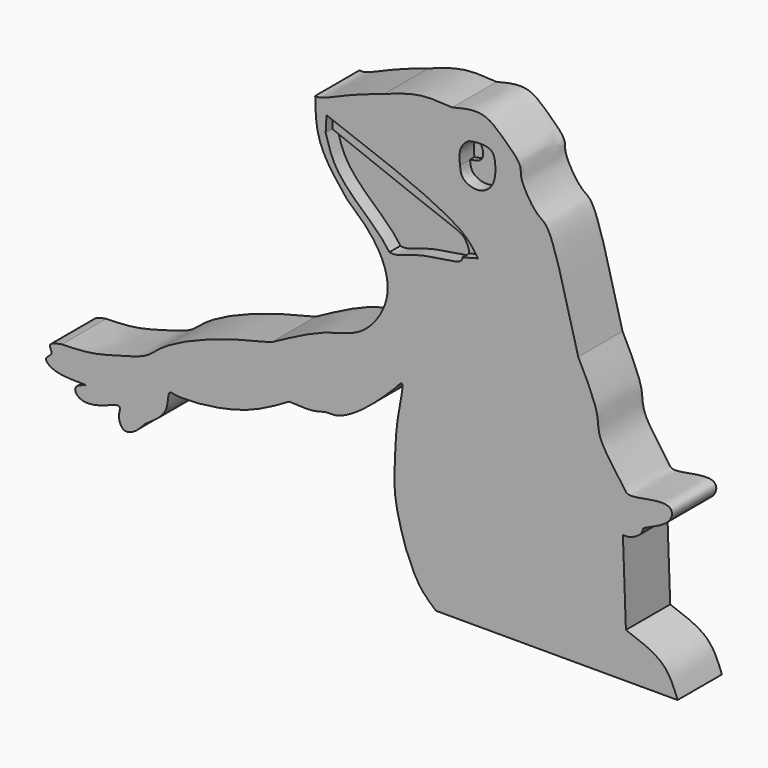
from build123d import *

# Parameters (mm, degrees)
F1_DEPTH = 10.16
F2_DEPTH = 7.874
F3_DEPTH = 6.858
F4_DEPTH = 7.62
F5_DEPTH = 8.636


with BuildPart() as f1:
    # F0 (on Front) → F1 (new body)
    with BuildSketch(Plane.XZ):
        with BuildLine():
            add(Edge.make_bspline(
                [(-7.4066231027, 26.5051294118), (-8.7900320216, 28.2262713918), (-11.3731182901, 31.4399692029), (-13.1375874525, 36.029446791), (-13.1983214906, 39.5210565578), (-13.2293635979, 41.3056723773)],
                knots=[0, 0, 0, 0, 0.3605146901, 0.6731491557, 1, 1, 1, 1], degree=3))
            add(Edge.make_bspline(
                [(-7.4066231027, 26.5051294118), (-5.6075185724, 24.9361719801), (-1.9179781437, 21.7186091439), (1.5465723362, 13.5968357464), (-4.1058604713, 5.1794589449), (-11.3159638541, 4.2955612312), (-17.697433793, 0.8426675206), (-21.2790891528, -1.0952990269)],
                knots=[0, 0, 0, 0, 0.1861093524, 0.381666528, 0.5848000662, 0.7669654355, 1, 1, 1, 1], degree=3))
            add(Edge.make_bspline(
                [(-21.2790891528, -1.0952990269), (-23.56552454, -1.6459951335), (-28.3564480252, -2.7999061185), (-36.4355382049, -5.5847773925), (-41.8693983392, -8.6332684298), (-44.0219888527, -10.9635819575), (-48.8501418421, -12.2068418697), (-54.1040270814, -13.7859140865), (-57.8317761657, -13.8769085079), (-59.6912130713, -13.9222973958)],
                knots=[0, 0, 0, 0, 0.1611318491, 0.3376305161, 0.4843078766, 0.5877501634, 0.7178219166, 0.8592468725, 1, 1, 1, 1], degree=3))
            add(Edge.make_bspline(
                [(-59.6912130713, -13.9222973958), (-60.7440045437, -14.1128348389), (-62.5705713103, -14.443412518), (-61.0351938244, -16.1803503583), (-63.3567414056, -17.0459505577), (-60.8289053963, -19.4033723602), (-53.2775461629, -18.801388512), (-57.6182429762, -19.5655543328), (-56.9864136913, -21.8405097239), (-53.39023608, -22.185542869), (-48.6434810455, -19.7179768531), (-49.2831889461, -21.6850615609), (-49.1899155711, -22.984303007), (-48.4322009301, -24.3896626493), (-46.346403078, -23.917435153), (-45.1561054659, -22.5980267187), (-44.4886833429, -21.8582097441)],
                knots=[0, 0, 0, 0, 0.0743763524, 0.1290411037, 0.1867442843, 0.2645359159, 0.3756723159, 0.442094031, 0.5003125582, 0.5916112881, 0.6916064757, 0.7412427064, 0.7992695806, 0.8544640103, 0.9183952499, 1, 1, 1, 1], degree=3))
            add(Edge.make_bspline(
                [(-44.4886833429, -21.8582097441), (-42.8185908796, -20.7481230246), (-39.9403088495, -18.834969875), (-40.4037159365, -14.8437998715), (-38.3227594151, -15.6867573324), (-30.3021075502, -15.0406522559), (-23.578180167, -12.8557765683), (-19.806517156, -10.6662328929), (-18.0037710816, -9.6196942031)],
                knots=[0, 0, 0, 0, 0.1757777272, 0.3029400375, 0.3903725429, 0.6035363414, 0.8105018126, 1, 1, 1, 1], degree=3))
            add(Edge.make_bspline(
                [(-18.0037710816, -9.6196942031), (-16.2645635863, -9.7213879889), (-13.3871353966, -9.8896350593), (-11.392664136, -8.9528402822), (-9.037164599, -9.390589127), (-3.9032877909, -6.3587167423), (-0.4294833966, -2.944172256), (1.451477292, -1.0952990269)],
                knots=[0, 0, 0, 0, 0.2123296467, 0.3512883383, 0.4935133969, 0.7257527248, 1, 1, 1, 1], degree=3))
            add(Edge.make_bspline(
                [(1.451477292, -1.0952990269), (1.9544574994, -0.4800143818), (3.2170803204, 1.0645243951), (2.1280184601, -4.1785510677), (1.6152193832, -7.7948831694), (1.5035617311, -10.11357974), (1.451477292, -11.1951716244)],
                knots=[0, 0, 0, 0, 0.1801701104, 0.4522780214, 0.7445066101, 1, 1, 1, 1], degree=3))
            add(Edge.make_bspline(
                [(1.451477292, -11.1951716244), (1.2967436476, -13.6903270157), (0.9824552356, -18.7583807584), (2.583274678, -23.8257501816), (3.3959625289, -26.3983011246)],
                knots=[0, 0, 0, 0, 0.4923300971, 1, 1, 1, 1], degree=3))
            add(Edge.make_bspline(
                [(3.3959625289, -26.3983011246), (4.158249938, -28.2716170621), (5.5759973581, -31.7557213588), (7.8550393976, -33.7248333487), (8.908697404, -34.6352029592)],
                knots=[0, 0, 0, 0, 0.5376750459, 1, 1, 1, 1], degree=3))
            add(Edge.make_bspline(
                [(8.908697404, -34.6352029592), (18.6420871318, -34.6352029592), (35.9365887195, -34.6352029592), (53.2310903072, -34.6352029592)],
                knots=[0.3294065062, 0.3294065062, 0.3294065062, 0.3294065062, 1, 1, 1, 1], degree=3))
            add(Edge.make_bspline(
                [(43.7491871417, -26.3983011246), (46.3077787712, -27.2893232954), (51.087376092, -28.9538043057), (52.5509772564, -32.8327269837), (53.2310903072, -34.6352029592)],
                knots=[0, 0, 0, 0, 0.5353153117, 1, 1, 1, 1], degree=3))
            add(Edge.make_bspline(
                [(43.1979112327, -11.1951716244), (43.381669869, -16.2628814578), (43.5654285053, -21.3305912912), (43.7491871417, -26.3983011246)],
                knots=[0, 0, 0, 0, 15.2131210383, 15.2131210383, 15.2131210383, 15.2131210383], degree=3))
            add(Edge.make_bspline(
                [(43.1979112327, -11.1951716244), (43.5183352989, -11.2426505237), (44.3081049949, -11.3596748044), (46.5694733664, -10.2746573768), (46.8369836183, -9.3243625824), (46.9522587955, -8.9148627594)],
                knots=[0, 0, 0, 0, 0.2798055912, 0.6896547423, 1, 1, 1, 1], degree=3))
            add(Edge.make_bspline(
                [(46.9522587955, -8.9148627594), (49.0362690899, -8.0046252531), (52.2856989616, -6.5853650167), (52.3273196547, -3.441773638), (48.1310780505, -3.8189615996), (43.982079067, -4.8170793105), (43.3020687211, -3.1600426553), (38.2919028941, 2.8917188694), (39.0157491614, 6.9139910424), (36.5053916306, 11.8779597454), (35.0109525025, 14.8330563679)],
                knots=[0, 0, 0, 0, 0.145051124, 0.2261665676, 0.3423752599, 0.4630754409, 0.5366211066, 0.7002750929, 0.8215709821, 1, 1, 1, 1], degree=3))
            add(Edge.make_bspline(
                [(35.0109525025, 14.8330563679), (34.431018966, 16.946565414), (33.1179201255, 21.7320211659), (29.9415403598, 34.4960866041), (27.3351855369, 35.0686856448), (24.0852057833, 40.2922800883), (24.8314755075, 42.4198146179), (21.2239801727, 45.7661293793), (18.2628537016, 48.4213484575), (14.9997388067, 48.4052039505), (12.9486147724, 47.8769993985), (11.9055090472, 47.6083792746)],
                knots=[0, 0, 0, 0, 0.1434488931, 0.3248002804, 0.4073836337, 0.5289185231, 0.602943845, 0.712887071, 0.8173986341, 0.907137488, 1, 1, 1, 1], degree=3))
            add(Edge.make_bspline(
                [(11.9055090472, 47.6083792746), (9.8950490412, 47.7541138428), (5.766689642, 48.0533710638), (1.5717159572, 46.5091078605), (-0.5803573877, 45.716881752)],
                knots=[0, 0, 0, 0, 0.4869876413, 1, 1, 1, 1], degree=3))
            add(Edge.make_bspline(
                [(-13.2293635979, 41.3056723773), (-13.0003261937, 41.2656918014), (-12.1969527844, 41.1254556171), (-7.0443679472, 43.5726559884), (-2.8414919746, 44.9668237204), (-0.5803573877, 45.716881752)],
                knots=[0, 0, 0, 0, 0.1555769528, 0.5457029495, 1, 1, 1, 1], degree=3))
        make_face()
        with BuildLine():
            add(Edge.make_bspline(
                [(-11.3126691431, 35.961959511), (-11.2628983334, 36.9324944913), (-11.2131275237, 37.9030294716), (-11.163356714, 38.8735644519)],
                knots=[0, 0, 0, 0, 2.9154309344, 2.9154309344, 2.9154309344, 2.9154309344], degree=3))
            add(Edge.make_bspline(
                [(-11.163356714, 38.8735644519), (-1.089233107, 35.157695789), (13.3416407071, 29.8348276293), (15.8512180503, 25.9394998745), (16.6088715196, 24.7634816915)],
                knots=[0, 0, 0, 0, 0.6980951907, 1, 1, 1, 1], degree=3))
            add(Edge.make_bspline(
                [(13.7719223276, 24.0169167519), (14.7175720582, 24.2657717317), (15.6632217889, 24.5146267116), (16.6088715196, 24.7634816915)],
                knots=[0, 0, 0, 0, 2.9335371017, 2.9335371017, 2.9335371017, 2.9335371017], degree=3))
            add(Edge.make_bspline(
                [(0.3699537927, 20.4839395005), (0.6376673623, 20.4228654043), (1.8058827095, 20.2831859956), (6.2831110854, 22.3802786497), (13.1412347706, 22.6675193641), (13.7560919204, 23.5948615014), (13.7719223276, 24.0169167519)],
                knots=[0.024246446, 0.024246446, 0.024246446, 0.024246446, 0.0752832809, 0.227448818, 0.3981676234, 0.4676986154, 0.4676986154, 0.4676986154, 0.4676986154], degree=3))
            add(Edge.make_bspline(
                [(-11.3126691431, 35.961959511), (-10.7719510748, 34.0099337213), (-9.5692396748, 29.6680709133), (-1.8028542335, 23.4639579128), (-0.2237714288, 21.2994180289), (0.3699537889, 20.4839394953)],
                knots=[0, 0, 0, 0, 0.3368370717, 0.7492218401, 0.9990272904, 0.9990272904, 0.9990272904, 0.9990272904], degree=3))
        make_face(mode=Mode.SUBTRACT)
        with BuildLine():
            add(Edge.make_bspline(
                [(15.4143655673, 43.2782992721), (14.9388805203, 43.1850064794), (14.7208459665, 43.072543595), (14.443830587, 42.8303591907)],
                knots=[0, 0, 0, 0, 0.0732289345, 0.0732289345, 0.0732289345, 0.0732289345], degree=3))
            add(Edge.make_bspline(
                [(13.3239831775, 38.7242510915), (13.3958878336, 37.9751006688), (13.5249753428, 36.5129222603), (16.8250029559, 35.2603043937), (19.8488246467, 37.3362182298), (19.8970827133, 41.2726928638), (19.2067972174, 43.6313570271), (16.2577366641, 43.4437733399), (15.4143655673, 43.2782992721)],
                knots=[0.2833516622, 0.2833516622, 0.2833516622, 0.2833516622, 0.3842890552, 0.5054836834, 0.631556821, 0.7683184605, 0.8701133355, 1, 1, 1, 1], degree=3))
            add(Edge.make_bspline(
                [(14.443830587, 42.8303591907), (14.079541886, 42.5118749167), (13.0621174976, 41.3274618508), (13.2428991335, 39.5690384696), (13.3239831775, 38.7242510915)],
                knots=[0.0732289345, 0.0732289345, 0.0732289345, 0.0732289345, 0.1695285459, 0.2833516622, 0.2833516622, 0.2833516622, 0.2833516622], degree=3))
        make_face(mode=Mode.SUBTRACT)
    extrude(amount=F1_DEPTH)

    # F0 (on Front) → F2 (join)
    with BuildSketch(Plane.XZ):
        with BuildLine():
            add(Edge.make_bspline(
                [(13.3239831775, 38.7242510915), (13.3958878336, 37.9751006688), (13.5249753428, 36.5129222603), (16.8250029559, 35.2603043937), (19.8488246467, 37.3362182298), (19.8970827133, 41.2726928638), (19.2067972174, 43.6313570271), (16.2577366641, 43.4437733399), (15.4143655673, 43.2782992721)],
                knots=[0.2833516622, 0.2833516622, 0.2833516622, 0.2833516622, 0.3842890552, 0.5054836834, 0.631556821, 0.7683184605, 0.8701133355, 1, 1, 1, 1], degree=3))
            add(Edge.make_bspline(
                [(15.4143655673, 43.2782992721), (14.9388805203, 43.1850064794), (14.7208459665, 43.072543595), (14.443830587, 42.8303591907)],
                knots=[0, 0, 0, 0, 0.0732289345, 0.0732289345, 0.0732289345, 0.0732289345], degree=3))
            add(Edge.make_bspline(
                [(14.443830587, 42.8303591907), (14.8433101801, 42.4768617407), (15.6851148603, 41.7319530822), (15.9372677112, 39.1191221974), (14.2149724829, 38.8588808755), (13.3239831775, 38.7242510915)],
                knots=[0, 0, 0, 0, 0.3035821331, 0.6397244437, 1, 1, 1, 1], degree=3))
        make_face()
    extrude(amount=F2_DEPTH)

    # F0 (on Front) → F3 (join)
    with BuildSketch(Plane.XZ):
        with BuildLine():
            add(Edge.make_bspline(
                [(14.443830587, 42.8303591907), (14.8433101801, 42.4768617407), (15.6851148603, 41.7319530822), (15.9372677112, 39.1191221974), (14.2149724829, 38.8588808755), (13.3239831775, 38.7242510915)],
                knots=[0, 0, 0, 0, 0.3035821331, 0.6397244437, 1, 1, 1, 1], degree=3))
            add(Edge.make_bspline(
                [(14.443830587, 42.8303591907), (14.079541886, 42.5118749167), (13.0621174976, 41.3274618508), (13.2428991335, 39.5690384696), (13.3239831775, 38.7242510915)],
                knots=[0.0732289345, 0.0732289345, 0.0732289345, 0.0732289345, 0.1695285459, 0.2833516622, 0.2833516622, 0.2833516622, 0.2833516622], degree=3))
        make_face()
    extrude(amount=F3_DEPTH)

    # F0 (on Front) → F4 (join)
    with BuildSketch(Plane.XZ):
        with BuildLine():
            add(Edge.make_bspline(
                [(13.7719223276, 24.0169167519), (13.7942097387, 24.6111224953), (13.1301489859, 26.6069808617), (9.442240242, 27.8546596817), (-2.5899245224, 32.55467381), (-11.3126691431, 35.961959511)],
                knots=[0.4676986154, 0.4676986154, 0.4676986154, 0.4676986154, 0.5655903364, 0.6850737477, 1, 1, 1, 1], degree=3))
            add(Edge.make_bspline(
                [(-11.3126691431, 35.961959511), (-10.7719510748, 34.0099337213), (-9.5692396748, 29.6680709133), (-1.8028542335, 23.4639579128), (-0.2237714288, 21.2994180289), (0.3699537889, 20.4839394953)],
                knots=[0, 0, 0, 0, 0.3368370717, 0.7492218401, 0.9990272904, 0.9990272904, 0.9990272904, 0.9990272904], degree=3))
            add(Edge.make_bspline(
                [(0.3699537927, 20.4839395005), (0.6376673623, 20.4228654043), (1.8058827095, 20.2831859956), (6.2831110854, 22.3802786497), (13.1412347706, 22.6675193641), (13.7560919204, 23.5948615014), (13.7719223276, 24.0169167519)],
                knots=[0.024246446, 0.024246446, 0.024246446, 0.024246446, 0.0752832809, 0.227448818, 0.3981676234, 0.4676986154, 0.4676986154, 0.4676986154, 0.4676986154], degree=3))
        make_face()
    extrude(amount=F4_DEPTH)

    # F0 (on Front) → F5 (join)
    with BuildSketch(Plane.XZ):
        with BuildLine():
            add(Edge.make_bspline(
                [(-11.163356714, 38.8735644519), (-1.089233107, 35.157695789), (13.3416407071, 29.8348276293), (15.8512180503, 25.9394998745), (16.6088715196, 24.7634816915)],
                knots=[0, 0, 0, 0, 0.6980951907, 1, 1, 1, 1], degree=3))
            add(Edge.make_bspline(
                [(-11.3126691431, 35.961959511), (-11.2628983334, 36.9324944913), (-11.2131275237, 37.9030294716), (-11.163356714, 38.8735644519)],
                knots=[0, 0, 0, 0, 2.9154309344, 2.9154309344, 2.9154309344, 2.9154309344], degree=3))
            add(Edge.make_bspline(
                [(13.7719223276, 24.0169167519), (13.7942097387, 24.6111224953), (13.1301489859, 26.6069808617), (9.442240242, 27.8546596817), (-2.5899245224, 32.55467381), (-11.3126691431, 35.961959511)],
                knots=[0.4676986154, 0.4676986154, 0.4676986154, 0.4676986154, 0.5655903364, 0.6850737477, 1, 1, 1, 1], degree=3))
            add(Edge.make_bspline(
                [(13.7719223276, 24.0169167519), (14.7175720582, 24.2657717317), (15.6632217889, 24.5146267116), (16.6088715196, 24.7634816915)],
                knots=[0, 0, 0, 0, 2.9335371017, 2.9335371017, 2.9335371017, 2.9335371017], degree=3))
        make_face()
    extrude(amount=F5_DEPTH)


solid = f1.part
